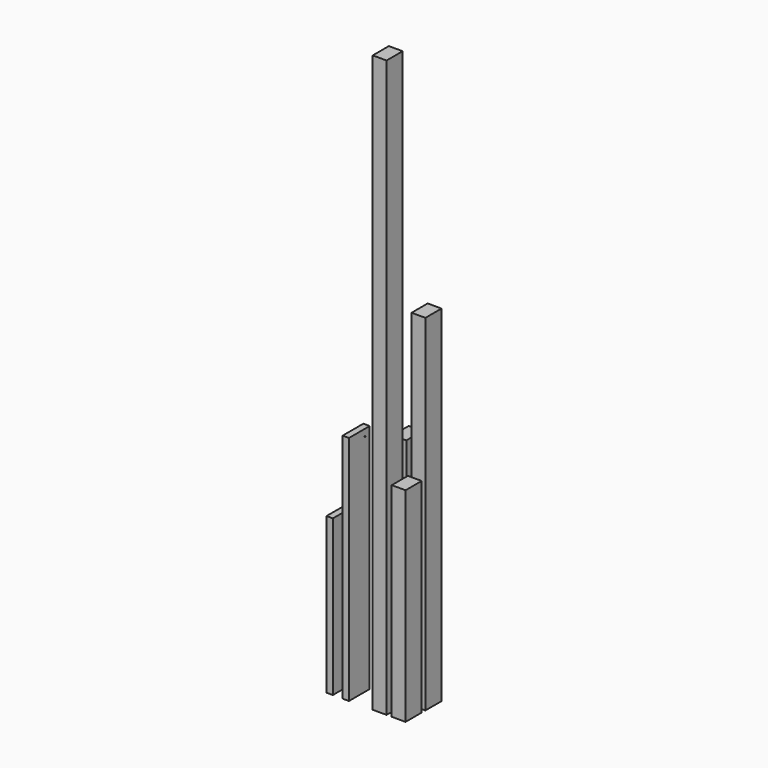
from build123d import *

# Parameters (mm, degrees)
F0_W      = 48
F0_H      = 70
F1_DEPTH  = 2000
F2_DEPTH  = 804
F3_DEPTH  = 1200
F4_DEPTH  = 708
F5_W      = 22
F5_H      = 90
F6_DEPTH  = 804
F7_R      = 2
F8_DEPTH  = 22
F9_DEPTH  = 540
F10_R     = 2
F11_DEPTH = 22


with BuildPart() as f1:
    # F0 (on Top) → F1 (new body)
    with BuildSketch(Plane.XY):
        with Locations((-16.531542, 17.398522)):
            Rectangle(F0_W, F0_H)
    extrude(amount=F1_DEPTH)


with BuildPart() as f2:
    # F0 (on Top) → F2 (new body)
    with BuildSketch(Plane.XY):
        with Locations((-16.531542, 103.398522)):
            Rectangle(F0_W, F0_H)
    extrude(amount=F2_DEPTH)


with BuildPart() as f3:
    # F0 (on Top) → F3 (new body)
    with BuildSketch(Plane.XY):
        with Locations((49.468458, 103.398522)):
            Rectangle(F0_W, F0_H)
    extrude(amount=F3_DEPTH)


with BuildPart() as f4:
    # F0 (on Top) → F4 (new body)
    with BuildSketch(Plane.XY):
        with Locations((49.468458, 17.398522)):
            Rectangle(F0_W, F0_H)
    extrude(amount=F4_DEPTH)


with BuildPart() as f6:
    # F5 (on Top) → F6 (new body)
    with BuildSketch(Plane.XY):
        with Locations((-133.94611, 27.33506)):
            Rectangle(F5_W, F5_H)
    extrude(amount=F6_DEPTH)

    # F7 (on face) → F8 (cut, through all)
    with BuildSketch(Plane(origin=(-144.94611, 0, 0), x_dir=(0, -1, 0), z_dir=(-1, 0, 0))):
        with Locations((-52.26915, 780)):
            Circle(F7_R)
    extrude(amount=-F8_DEPTH, mode=Mode.SUBTRACT)


with BuildPart() as f9:
    # F5 (on Top) → F9 (new body)
    with BuildSketch(Plane.XY):
        with Locations((-189.94611, 27.33506)):
            Rectangle(F5_W, F5_H)
    extrude(amount=F9_DEPTH)

    # F10 (on face) → F11 (cut, through all)
    with BuildSketch(Plane(origin=(-200.94611, 0, 0), x_dir=(0, -1, 0), z_dir=(-1, 0, 0))):
        with Locations((-27.33506, 529)):
            Circle(F10_R)
        with Locations((-27.33506, 11)):
            Circle(F10_R)
    extrude(amount=-F11_DEPTH, mode=Mode.SUBTRACT)


solid = Compound([f1.part, f2.part, f3.part, f4.part, f6.part, f9.part])
